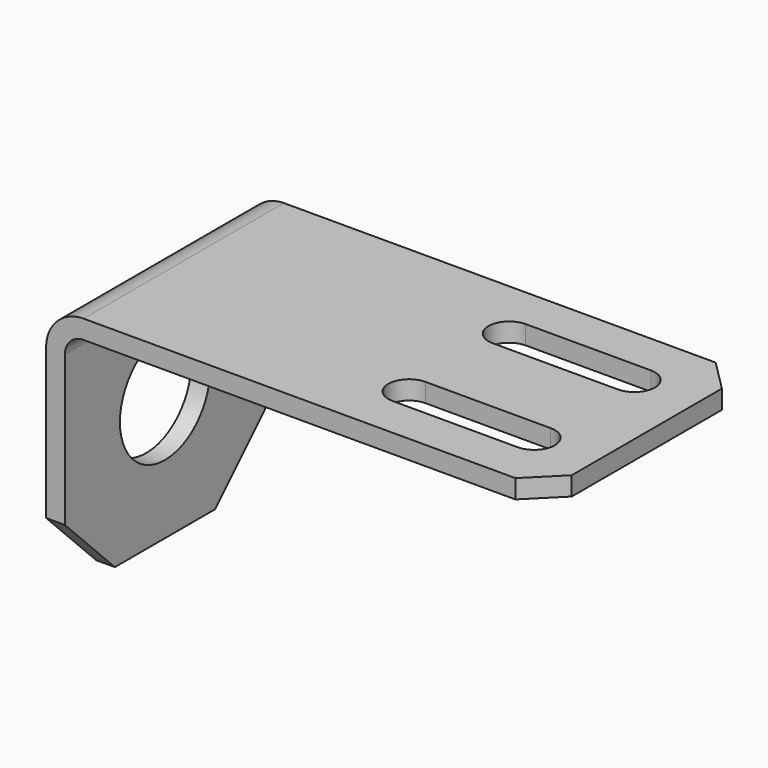
from build123d import *

# Parameters (mm, degrees)
F1_DEPTH = 20
F2_R     = 9
F3_DEPTH = 4
F4_SIZE  = 10
F6_DEPTH = 3
F7_SIZE  = 5


with BuildPart() as f1:
    # F0 (on Front) → F1 (new body, symmetric)
    with BuildSketch(Plane.XZ):
        with BuildLine():
            Line((0, -3), (0, 0))
            Line((0, 0), (-74, 0))
            ThreePointArc((-74, 0), (-78.242641, -1.757359), (-80, -6))
            Line((-80, -6), (-80, -40))
            Line((-80, -40), (-77, -40))
            Line((-77, -40), (-77, -6))
            ThreePointArc((-77, -6), (-76.12132, -3.87868), (-74, -3))
            Line((-74, -3), (0, -3))
        make_face()
    extrude(amount=F1_DEPTH, both=True)

    # F2 (on face) → F3 (cut)
    with BuildSketch(Plane(origin=(-80, 0, 0), x_dir=(0, -1, 0), z_dir=(-1, 0, 0))):
        with Locations((0, -20)):
            Circle(F2_R)
    extrude(amount=-F3_DEPTH, mode=Mode.SUBTRACT)

    # F4
    f4_edges = [f1.edges().sort_by_distance(p)[0] for p in [
        (-78.5, -20, -40),
        (-78.5, 20, -40),
    ]]
    chamfer(f4_edges, length=F4_SIZE)

    # F5 (on face) → F6 (cut)
    with BuildSketch(Plane.XY):
        with BuildLine():
            Line((-10, -6.7), (-30, -6.7))
            ThreePointArc((-30, -6.7), (-33.3, -10), (-30, -13.3))
            Line((-30, -13.3), (-10, -13.3))
            ThreePointArc((-10, -13.3), (-6.7, -10), (-10, -6.7))
        make_face()
        with BuildLine():
            ThreePointArc((-30, 13.3), (-33.3, 10), (-30, 6.7))
            Line((-30, 6.7), (-10, 6.7))
            ThreePointArc((-10, 6.7), (-6.7, 10), (-10, 13.3))
            Line((-10, 13.3), (-30, 13.3))
        make_face()
    extrude(amount=-F6_DEPTH, mode=Mode.SUBTRACT)

    # F7
    f7_edges = [f1.edges().sort_by_distance(p)[0] for p in [
        (0, -20, -1.5),
        (0, 20, -1.5),
    ]]
    chamfer(f7_edges, length=F7_SIZE)


solid = f1.part
